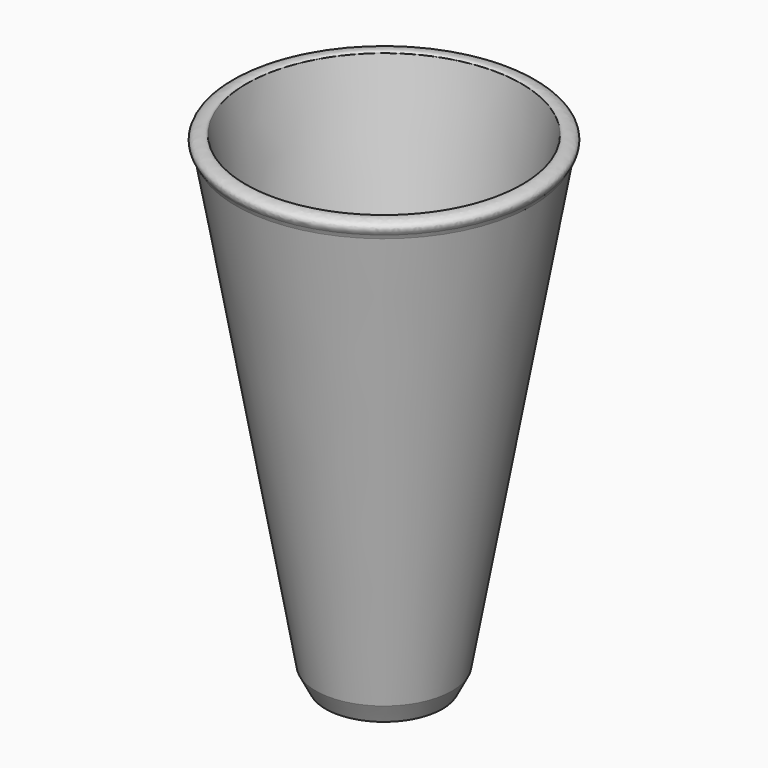
from build123d import *

# Parameters (mm, degrees)
F2_R     = 1.5
F3_SIZE2 = 1
F3_SIZE  = 3


with BuildPart() as f1:
    # F0 (on Front) → F1 (revolve)
    with BuildSketch(Plane.XZ):
        with BuildLine():
            Line((0, 1.5), (0, 0))
            Line((0, 0), (10, 0))
            Line((10, 0), (22.8946643295, 73.1292753821))
            add(Edge.make_bspline(
                [(22.8946643295, 73.1292753821), (23.4736918238, 73.7220347871), (24.0072659518, 75.197090136), (21.2747648965, 75.4566722253), (21.1936703294, 75)],
                knots=[0, 0, 0, 0, 0.4817969424, 1, 1, 1, 1], degree=3))
            Line((21.1936703294, 75), (15.6888612006, 43.7806760675))
            Line((15.6888612006, 43.7806760675), (16.0605980272, 40.1301298908))
            Line((16.0605980272, 40.1301298908), (15.0266056068, 40.0248379584))
            Line((15.0266056068, 40.0248379584), (15.0116333077, 39.9399258308))
            Line((15.0116333077, 39.9399258308), (15.3833701343, 36.289379654))
            Line((15.3833701343, 36.289379654), (14.3493777139, 36.1840877217))
            Line((14.3493777139, 36.1840877217), (14.3344054148, 36.099175594))
            Line((14.3344054148, 36.099175594), (14.7061422414, 32.4486294173))
            Line((14.7061422414, 32.4486294173), (13.672149821, 32.3433374849))
            Line((13.672149821, 32.3433374849), (13.6571775219, 32.2584253573))
            Line((13.6571775219, 32.2584253573), (14.0289143485, 28.6078791805))
            Line((14.0289143485, 28.6078791805), (12.9949219281, 28.5025872482))
            Line((12.9949219281, 28.5025872482), (12.979949629, 28.4176751206))
            Line((12.979949629, 28.4176751206), (13.3516864556, 24.7671289438))
            Line((13.3516864556, 24.7671289438), (12.3176940352, 24.6618370114))
            Line((12.3176940352, 24.6618370114), (12.3027217361, 24.5769248838))
            Line((12.3027217361, 24.5769248838), (12.6744585627, 20.926378707))
            Line((12.6744585627, 20.926378707), (11.6404661423, 20.8210867747))
            Line((11.6404661423, 20.8210867747), (11.6254938432, 20.7361746471))
            Line((11.6254938432, 20.7361746471), (11.9972306698, 17.0856284703))
            Line((11.9972306698, 17.0856284703), (10.9632382494, 16.9803365379))
            Line((10.9632382494, 16.9803365379), (10.9482659503, 16.8954244103))
            Line((10.9482659503, 16.8954244103), (11.3200027769, 13.2448782335))
            Line((11.3200027769, 13.2448782335), (10.2860103565, 13.1395863012))
            Line((10.2860103565, 13.1395863012), (10.2710380574, 13.0546741736))
            Line((10.2710380574, 13.0546741736), (10.642774884, 9.4041279968))
            Line((10.642774884, 9.4041279968), (9.6087824636, 9.2988360644))
            Line((9.6087824636, 9.2988360644), (9.5938101645, 9.2139239368))
            Line((9.5938101645, 9.2139239368), (9.9655469911, 5.56337776))
            Line((9.9655469911, 5.56337776), (8.9315545707, 5.4580858277))
            Line((8.9315545707, 5.4580858277), (8.2336372473, 1.5))
            Line((8.2336372473, 1.5), (0, 1.5))
        make_face()
    revolve(axis=Axis((0, 0, 0.75), (0, 0, 1)))

    # F2
    f2_edges = [f1.edges().sort_by_distance(p)[0] for p in [
        (-22.894664, 0, 73.129275),
    ]]
    fillet(f2_edges, radius=F2_R)

    # F3
    f3_edges = [f1.edges().sort_by_distance(p)[0] for p in [
        (-10, 0, 0),
    ]]
    f3_side = f1.faces().sort_by_distance((-16.411363, 0, 36.360647))[0]
    chamfer(f3_edges, length=F3_SIZE, length2=F3_SIZE2, reference=f3_side)


solid = f1.part
